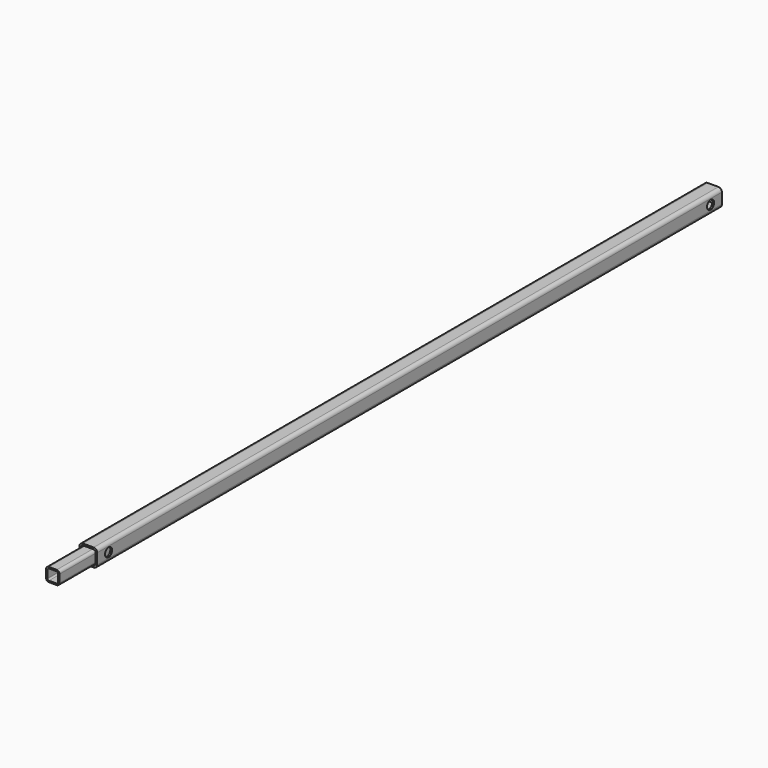
from build123d import *

# Parameters (mm, degrees)
F1_DEPTH = 550
F2_R     = 6.25
F3_DEPTH = 25.001
F5_DEPTH = 62.5


with BuildPart() as f1:
    # F0 (on Front) → F1 (new body, symmetric)
    with BuildSketch(Plane.XZ):
        with BuildLine():
            ThreePointArc((12.5, 7.5), (11.035534, 11.035534), (7.5, 12.5))
            Line((7.5, 12.5), (-7.5, 12.5))
            ThreePointArc((-7.5, 12.5), (-11.035534, 11.035534), (-12.5, 7.5))
            Line((-12.5, 7.5), (-12.5, -7.5))
            ThreePointArc((-12.5, -7.5), (-11.035534, -11.035534), (-7.5, -12.5))
            Line((-7.5, -12.5), (7.5, -12.5))
            ThreePointArc((7.5, -12.5), (11.035534, -11.035534), (12.5, -7.5))
            Line((12.5, -7.5), (12.5, 7.5))
        make_face()
        with BuildLine():
            Line((-7.5, 10), (7.5, 10))
            ThreePointArc((7.5, 10), (9.267767, 9.267767), (10, 7.5))
            Line((10, 7.5), (10, -7.5))
            ThreePointArc((10, -7.5), (9.267767, -9.267767), (7.5, -10))
            Line((7.5, -10), (-7.5, -10))
            ThreePointArc((-7.5, -10), (-9.267767, -9.267767), (-10, -7.5))
            Line((-10, -7.5), (-10, 7.5))
            ThreePointArc((-10, 7.5), (-9.267767, 9.267767), (-7.5, 10))
        make_face(mode=Mode.SUBTRACT)
    extrude(amount=F1_DEPTH, both=True)

    # F2 (on face) → F3 (cut, through all)
    with BuildSketch(Plane.YZ.offset(12.5)):
        with Locations((-530, 0)):
            Circle(F2_R)
        with Locations((530, 0)):
            Circle(F2_R)
    extrude(amount=-F3_DEPTH, mode=Mode.SUBTRACT)


with BuildPart() as f5:
    # F4 (on face) → F5 (new body, symmetric)
    with BuildSketch(Plane.XZ.offset(550)):
        with BuildLine():
            ThreePointArc((9.525, 5.525), (8.353427, 8.353427), (5.525, 9.525))
            Line((5.525, 9.525), (-5.525, 9.525))
            ThreePointArc((-5.525, 9.525), (-8.353427, 8.353427), (-9.525, 5.525))
            Line((-9.525, 5.525), (-9.525, -5.525))
            ThreePointArc((-9.525, -5.525), (-8.353427, -8.353427), (-5.525, -9.525))
            Line((-5.525, -9.525), (5.525, -9.525))
            ThreePointArc((5.525, -9.525), (8.353427, -8.353427), (9.525, -5.525))
            Line((9.525, -5.525), (9.525, 5.525))
        make_face()
        with BuildLine():
            ThreePointArc((5.525, 7.525), (6.939214, 6.939214), (7.525, 5.525))
            Line((7.525, 5.525), (7.525, -5.525))
            ThreePointArc((7.525, -5.525), (6.939214, -6.939214), (5.525, -7.525))
            Line((5.525, -7.525), (-5.525, -7.525))
            ThreePointArc((-5.525, -7.525), (-6.939214, -6.939214), (-7.525, -5.525))
            Line((-7.525, -5.525), (-7.525, 5.525))
            ThreePointArc((-7.525, 5.525), (-6.939214, 6.939214), (-5.525, 7.525))
            Line((-5.525, 7.525), (5.525, 7.525))
        make_face(mode=Mode.SUBTRACT)
    extrude(amount=F5_DEPTH, both=True)


solid = Compound([f1.part, f5.part])
